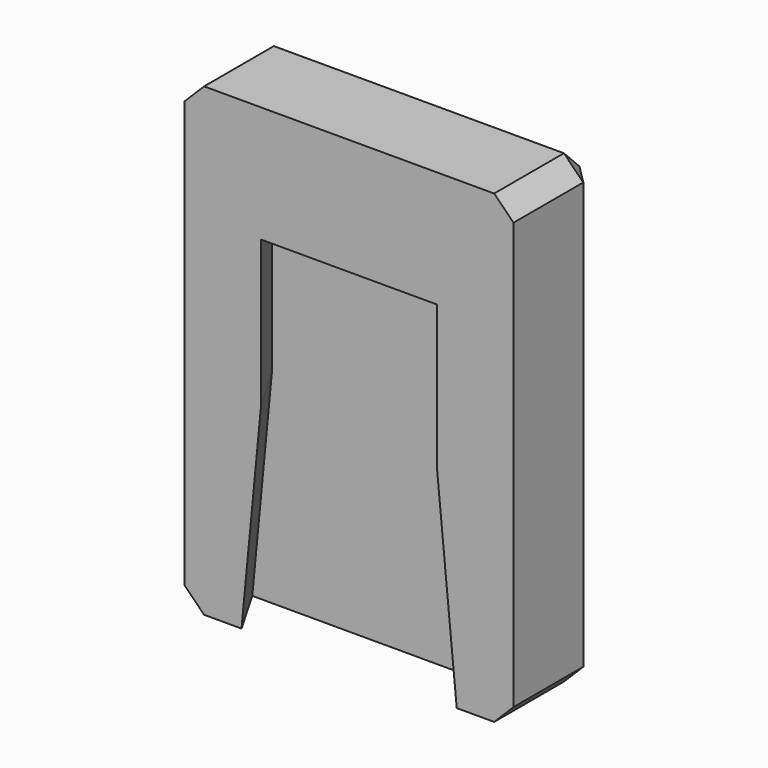
from build123d import *

# Parameters (mm, degrees)
SKETCH039_W     = 33.930523
SKETCH039_H     = 11
PAD014_DEPTH    = 48
POCKET014_DEPTH = 15
CHAMFER002_SIZE = 2


with BuildPart() as part:
    # Sketch039 (on Face1 of Binder017) → Pad014 (new body)
    with BuildSketch(Plane.XY.offset(25.4)):
        with Locations((70.371465, 14.5)):
            Rectangle(SKETCH039_W, SKETCH039_H)
    extrude(amount=-PAD014_DEPTH)

    # Sketch041 (on Face1 of Binder019) → SubtractiveLoft section 0
    with BuildSketch(Plane(origin=(0, 0, -23.6), x_dir=(1, 0, 0), z_dir=(0, 0, -1))):
        Polygon((56.284717, -14), (84.458214, -14), (81.571463, -9), (59.171468, -9), align=None)
    # Sketch040 (on Face1 of Binder018) → SubtractiveLoft section 1
    with BuildSketch(Plane.XY.offset(-1.6)):
        Polygon((58.406204, 14), (82.336727, 14), (79.449975, 9), (61.292955, 9), align=None)
    loft(mode=Mode.SUBTRACT)

    # SubtractiveLoft Face6 → Pocket014 (cut)
    with BuildSketch(Plane(origin=(70.371465, 11.614315, -1.6), x_dir=(0, -1, 0), z_dir=(0, 0, -1))):
        Polygon((-2.385685, 11.965261), (-2.385685, -11.965261), (2.614315, -9.07851), (2.614315, 9.07851), align=None)
    extrude(amount=-POCKET014_DEPTH, mode=Mode.SUBTRACT)

    # Chamfer002
    chamfer002_edges = [part.edges().sort_by_distance(p)[0] for p in [
        (87.336727, 14.5, 25.4),
        (87.336727, 20, 1.4),
        (70.371465, 20, 25.4),
        (53.406204, 14.5, 25.4),
        (53.406204, 20, 1.4),
        (53.406204, 14.5, -22.6),
        (70.371465, 20, -22.6),
        (87.336727, 14.5, -22.6),
    ]]
    chamfer(chamfer002_edges, length=CHAMFER002_SIZE)


solid = part.part
